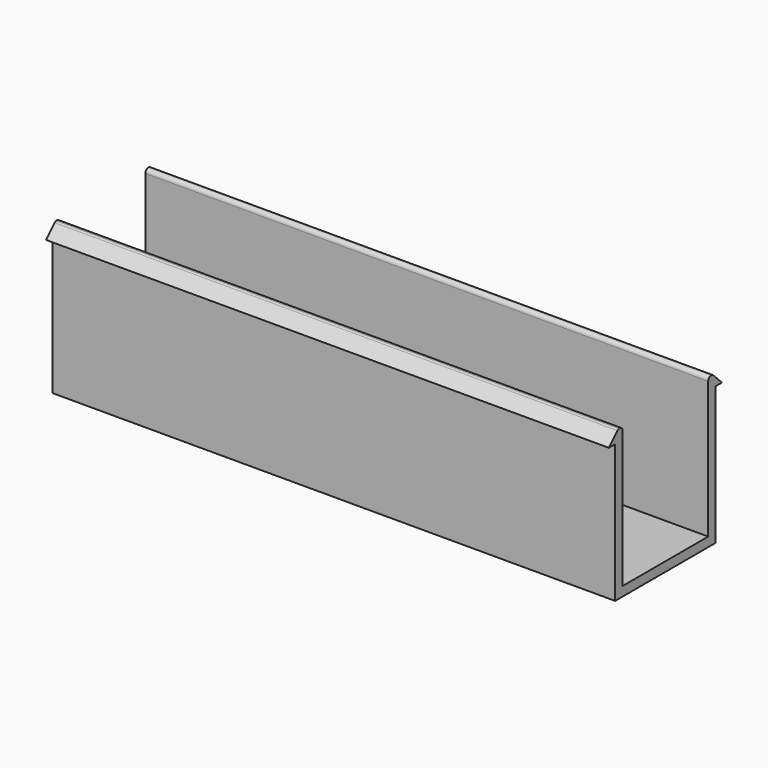
from build123d import *

# Parameters (mm, degrees)
F1_DEPTH = 95.504


with BuildPart() as f1:
    # F0 (on Right) → F1 (new body, symmetric)
    with BuildSketch(Plane.YZ):
        with BuildLine():
            Line((-21.336, 0), (0, 0))
            Line((0, 0), (0, 3.175))
            Line((0, 3.175), (-18.161, 3.175))
            Line((-18.161, 3.175), (-18.161, 49.570328))
            ThreePointArc((-18.161, 49.570328), (-18.653287, 50.574351), (-19.7485, 50.8))
            ThreePointArc((-19.7485, 50.8), (-20.060979, 50.673064), (-20.329026, 50.468353))
            Line((-20.329026, 50.468353), (-23.9776, 46.819779))
            Line((-23.9776, 46.819779), (-21.336, 46.819779))
            Line((-21.336, 46.819779), (-21.336, 0))
        make_face()
        with BuildLine():
            Line((0, 3.175), (0, 0))
            Line((0, 0), (21.336, 0))
            Line((21.336, 0), (21.336, 46.819779))
            Line((21.336, 46.819779), (23.9776, 46.819779))
            Line((23.9776, 46.819779), (20.329026, 50.468353))
            ThreePointArc((20.329026, 50.468353), (20.060979, 50.673064), (19.7485, 50.8))
            ThreePointArc((19.7485, 50.8), (18.653287, 50.574351), (18.161, 49.570328))
            Line((18.161, 49.570328), (18.161, 3.175))
            Line((18.161, 3.175), (0, 3.175))
        make_face()
    extrude(amount=F1_DEPTH, both=True)


solid = f1.part
